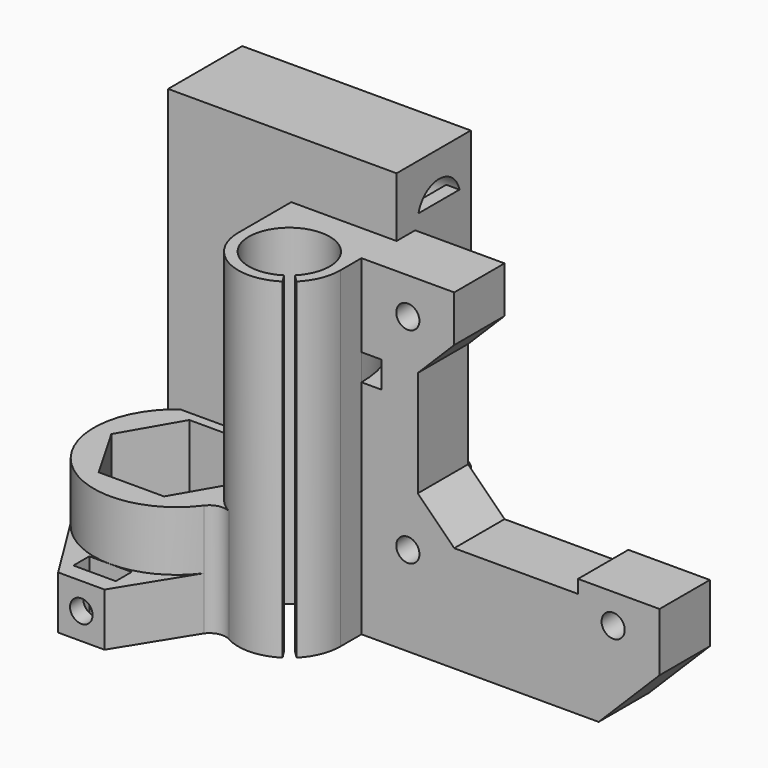
from build123d import *

# Parameters (mm, degrees)
BOX_W           = 34.5
BOX_H           = 16
BOX_DEPTH       = 59
SKETCH_R        = 4
POCKET_DEPTH    = 34.501
POCKET001_DEPTH = 3.5000000001
BOX001_W        = 45
BOX001_H        = 9.5
BOX001_DEPTH    = 50
SKETCH008_R     = 1.75
POCKET002_DEPTH = 9.5010000001
PAD_DEPTH       = 8
PAD001_DEPTH    = 2
SKETCH009_R     = 3.5
POCKET003_DEPTH = 2
PAD002_DEPTH    = 50
SKETCH013_R     = 6
PAD003_DEPTH    = 17
SKETCH019_W     = 9
SKETCH019_H     = 5.5
PAD004_DEPTH    = 2
SKETCH015_W     = 3
SKETCH015_H     = 4
GROOVE_ANGLE    = 40
SKETCH016_W     = 3
SKETCH016_H     = 4
POCKET004_DEPTH = 5
SKETCH020_W     = 6.4
SKETCH020_H     = 3
PAD005_DEPTH    = 8
SKETCH021_R     = 1.7
POCKET005_DEPTH = 13
POCKET006_DEPTH = 15
SKETCH023_W     = 34.5
SKETCH023_H     = 2
POCKET007_DEPTH = 100


with BuildPart() as pocket001:
    # Box → Box (new body)
    with BuildSketch(Plane(origin=(-18, -8, -30), x_dir=(1, 0, 0), z_dir=(0, 0, 1))):
        with Locations((17.25, 8)):
            Rectangle(BOX_W, BOX_H)
    extrude(amount=BOX_DEPTH)

    # Sketch → Pocket (cut, through all)
    with BuildSketch(Plane(origin=(16.5, -8, -30), x_dir=(0, 1, 0), z_dir=(1, 0, 0))):
        with Locations((8, 51)):
            Circle(SKETCH_R)
        with Locations((8, 6)):
            Circle(SKETCH_R)
        with BuildLine():
            ThreePointArc((12.5, 39.4999793754), (8.0000103123, 44), (3.5, 39.5))
            Line((3.5, 39.5), (3.5, 14.5))
            Line((3.5, 14.5), (6, 12))
            Line((6, 12), (10, 12))
            Line((10, 12), (12.5, 14.5))
            Line((12.5, 14.5), (12.5, 39.4999793754))
        make_face()
    extrude(amount=-POCKET_DEPTH, mode=Mode.SUBTRACT)

    # Sketch007 → Pocket001 (cut)
    with BuildSketch(Plane(origin=(-18, 8, -30), x_dir=(-1, 0, 0), z_dir=(0, 1, 0))):
        Polygon((-34.5, 39.4999793754), (-24.8503628945, 27.9999896877), (-24.8503628945, 25.9999896877), (-34.5, 14.5), align=None)
    extrude(amount=-POCKET001_DEPTH, mode=Mode.SUBTRACT)


with BuildPart() as pocket007:
    # Box001 → Box001 (new body)
    with BuildSketch(Plane(origin=(16, -14, -30), x_dir=(1, 0, 0), z_dir=(0, 0, 1))):
        with Locations((22.5, 4.75)):
            Rectangle(BOX001_W, BOX001_H)
    extrude(amount=BOX001_DEPTH)

    # Sketch008 → Pocket002 (cut, through all)
    with BuildSketch(Plane(origin=(16, -14, -30), x_dir=(1, 0, 0), z_dir=(0, -1, 0))):
        with Locations((7, 44.5)):
            Circle(SKETCH008_R)
        with Locations((7, 13.5)):
            Circle(SKETCH008_R)
        with Locations((38, 13.5)):
            Circle(SKETCH008_R)
        Polygon((14, 50), (14, 43), (8.5, 37.5), (8.5, 21.5), (14, 16), (32.692131, 16), (32.692131, 18), (45, 18), (45, 50), align=None)
        Polygon((45, 9.1923881554), (35.8076118446, 0), (45, 0), align=None)
    extrude(amount=-POCKET002_DEPTH, mode=Mode.SUBTRACT)

    # Fusion: union Pocket001
    add(pocket001.part)

    # Sketch010 → Pad (new body)
    with BuildSketch(Plane(origin=(0, 0, -30), x_dir=(1, 0, 0), z_dir=(0, 0, -1))):
        with BuildLine():
            ThreePointArc((25.4999662688, 4.4999999999), (19.1360389694, 1.8639610307), (16.5000000001, -4.4999662687))
            Line((16.5000000001, -4.4999662687), (16.5000000001, 4.4999999999))
            Line((16.5000000001, 4.4999999999), (25.4999662688, 4.4999999999))
        make_face()
    extrude(amount=-PAD_DEPTH)

    # Sketch011 → Pad001 (new body)
    with BuildSketch(Plane.YZ.offset(16.5)):
        with BuildLine():
            ThreePointArc((-3.4641016151, -22), (0, -28), (3.4641016151, -22))
            Line((-3.4641016151, -22), (3.4641016151, -22))
        make_face()
    extrude(amount=-PAD001_DEPTH)

    # Sketch009 → Pocket003 (cut)
    with BuildSketch(Plane(origin=(0, -4.5, 0), x_dir=(-1, 0, 0), z_dir=(0, 1, 0))):
        with Locations((-23, 14.5)):
            Circle(SKETCH009_R)
        with Locations((-54, -16.5)):
            Circle(SKETCH009_R)
        with Locations((-23, -16.5)):
            Circle(SKETCH009_R)
    extrude(amount=-POCKET003_DEPTH, mode=Mode.SUBTRACT)

    # Sketch012 → Pad002 (new body)
    with BuildSketch(Plane(origin=(0, 0, -30), x_dir=(1, 0, 0), z_dir=(0, 0, -1))):
        with BuildLine():
            ThreePointArc((15.9999999999, 18.0000351724), (15.4138656704, 20.9466786767), (13.7447222151, 23.4447222151))
            Line((13.7447222151, 23.4447222151), (12.6133513652, 22.3133513652))
            ThreePointArc((11.6013945082, 23.1294048681), (4.4708258711, 13.2515870556), (12.6133513652, 22.3133513652))
            Line((11.6013945082, 23.1294048681), (12.4673340514, 24.4748225384))
            ThreePointArc((12.4673340514, 24.4748225384), (4.6120940547, 24.759389746), (0.6000000001, 18.0000351024))
            Line((0.6000000001, 18.0000351024), (0.6000000001, 8))
            Line((0.6000000001, 8), (15.9999999999, 8))
            Line((15.9999999999, 18.0000351724), (15.9999999999, 8))
        make_face()
    extrude(amount=-PAD002_DEPTH)

    # Sketch013 → Pad003 (new body)
    with BuildSketch(Plane(origin=(0, 0, -30), x_dir=(1, 0, 0), z_dir=(0, 0, -1))):
        with BuildLine():
            ThreePointArc((1.3480393737, 25.435516441), (-17.5103595019, 26.8672185857), (-16.2, 8))
            Line((-16.2, 8), (0.6000000001, 8))
            Line((0.6000000001, 8), (0.6, 18.0000060082))
            ThreePointArc((4.5689954494, 24.7356963295), (1.6660458786, 21.9090475457), (0.6, 18.0000060082))
            ThreePointArc((1.3480393737, 25.435516441), (2.8268537634, 24.4796180457), (4.5689954493, 24.7356963295))
        make_face()
        with Locations((-8.7, 18)):
            Circle(SKETCH013_R, mode=Mode.SUBTRACT)
    extrude(amount=-PAD003_DEPTH)

    # Sketch019 → Pad004 (new body)
    with BuildSketch(Plane.YZ.offset(16.5)):
        with Locations((0, 19.25)):
            Rectangle(SKETCH019_W, SKETCH019_H)
    extrude(amount=-PAD004_DEPTH)

    # Sketch015 → Groove (revolve, cut)
    with BuildSketch(Plane.XZ.offset(14)):
        with Locations((17.5, 5.5)):
            Rectangle(SKETCH015_W, SKETCH015_H)
    revolve(axis=Axis((0, -14, 0), (0, 0, 1)), revolution_arc=GROOVE_ANGLE, mode=Mode.SUBTRACT)

    # Sketch016 → Pocket004 (cut)
    with BuildSketch(Plane.XZ.offset(8)):
        with Locations((-0.8999999999, 5.5)):
            Rectangle(SKETCH016_W, SKETCH016_H)
    extrude(amount=-POCKET004_DEPTH, mode=Mode.SUBTRACT)

    # Sketch020 → Pad005 (new body)
    with BuildSketch(Plane(origin=(0, 0, -30), x_dir=(1, 0, 0), z_dir=(0, 0, -1))):
        Polygon((-19.3039162536, 24.6186826549), (-12.2, 36), (-5.2, 36), (1.3480393737, 25.435516441), align=None)
        with Locations((-8.7, 32)):
            Rectangle(SKETCH020_W, SKETCH020_H, mode=Mode.SUBTRACT)
    extrude(amount=-PAD005_DEPTH)

    # Sketch021 → Pocket005 (cut)
    with BuildSketch(Plane.XZ.offset(36)):
        with Locations((-8.7, -26)):
            Circle(SKETCH021_R)
    extrude(amount=-POCKET005_DEPTH, mode=Mode.SUBTRACT)

    # Sketch022 → Pocket006 (cut, symmetric)
    with BuildSketch(Plane.XY.offset(-13)):
        Polygon((-3.7636551984, -26.55), (1.1726896031, -18), (-3.7636551984, -9.45), (-13.6363448016, -9.45), (-18.5726896031, -18), (-13.6363448016, -26.55), align=None)
    extrude(amount=POCKET006_DEPTH, both=True, mode=Mode.SUBTRACT)

    # Sketch023 → Pocket007 (cut)
    with BuildSketch(Plane.XY.offset(29)):
        with Locations((-0.75, 7)):
            Rectangle(SKETCH023_W, SKETCH023_H)
    extrude(amount=-POCKET007_DEPTH, mode=Mode.SUBTRACT)


solid = pocket007.part
